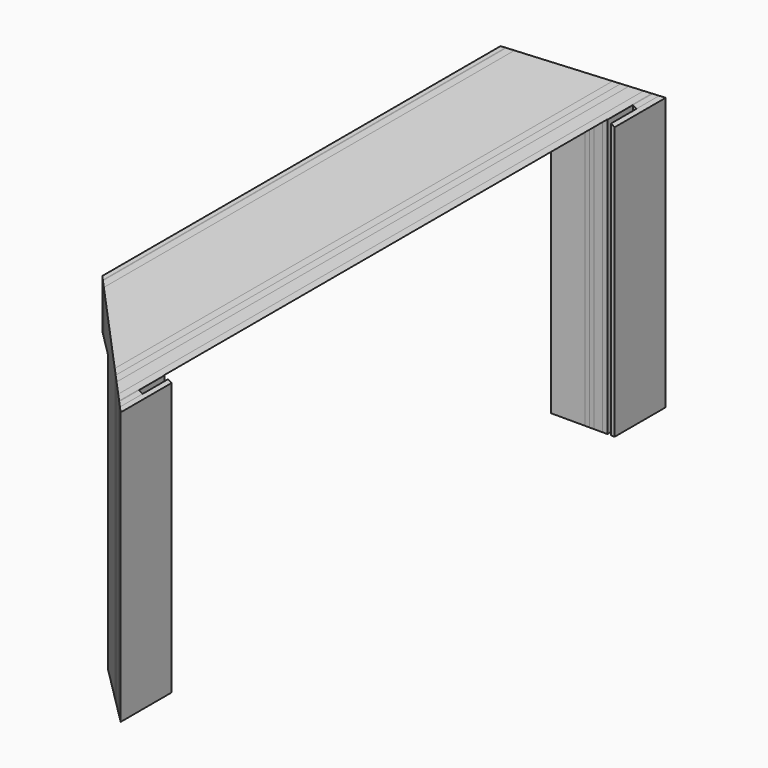
from build123d import *

# Parameters (mm, degrees)
F0_W      = 1500
F0_H      = 800
F1_DEPTH  = 6
F2_DEPTH  = 1
F3_DEPTH  = 10
F4_DEPTH  = 120
F5_DEPTH  = 10
F6_DEPTH  = 10
F7_DEPTH  = 18
F8_DEPTH  = 10
F9_DEPTH  = 1
F10_W     = 70
F10_H     = 800
F11_DEPTH = 8
F12_W     = 1500
F12_H     = 800
F13_DEPTH = 8
F15_DEPTH = 800.001
F16_W     = 1219.2
F16_H     = 609.6
F17_DEPTH = 202.001
F19_DEPTH = 1500.001


with BuildPart() as f1:
    # F0 (on Right) → F1 (new body)
    with BuildSketch(Plane.YZ):
        with Locations((750, 400)):
            Rectangle(F0_W, F0_H)
    extrude(amount=F1_DEPTH)


with BuildPart() as f2:
    # F2 (new): a face of the model
    f2_faces = [f1.part.faces().sort_by_distance(p)[0] for p in [
        (6, 750, 400),
    ]]
    extrude(f2_faces, amount=F2_DEPTH)


with BuildPart() as f3:
    # F3 (new): a face of the model
    f3_faces = [f2.part.faces().sort_by_distance(p)[0] for p in [
        (7, 750, 400),
    ]]
    extrude(f3_faces, amount=F3_DEPTH)


with BuildPart() as f4:
    # F4 (new): a face of the model
    f4_faces = [f3.part.faces().sort_by_distance(p)[0] for p in [
        (17, 750, 400),
    ]]
    extrude(f4_faces, amount=F4_DEPTH)


with BuildPart() as f5:
    # F5 (new): a face of the model
    f5_faces = [f4.part.faces().sort_by_distance(p)[0] for p in [
        (137, 750, 400),
    ]]
    extrude(f5_faces, amount=F5_DEPTH)


with BuildPart() as f6:
    # F6 (new): a face of the model
    f6_faces = [f5.part.faces().sort_by_distance(p)[0] for p in [
        (147, 750, 400),
    ]]
    extrude(f6_faces, amount=F6_DEPTH)


with BuildPart() as f7:
    # F7 (new): a face of the model
    f7_faces = [f6.part.faces().sort_by_distance(p)[0] for p in [
        (157, 750, 400),
    ]]
    extrude(f7_faces, amount=F7_DEPTH)


with BuildPart() as f8:
    # F8 (new): a face of the model
    f8_faces = [f7.part.faces().sort_by_distance(p)[0] for p in [
        (175, 750, 400),
    ]]
    extrude(f8_faces, amount=F8_DEPTH)


with BuildPart() as f9:
    # F9 (new): a face of the model
    f9_faces = [f8.part.faces().sort_by_distance(p)[0] for p in [
        (185, 750, 400),
    ]]
    extrude(f9_faces, amount=F9_DEPTH)


with BuildPart() as f11:
    # F10 (on face) → F11 (new body)
    with BuildSketch(Plane.YZ.offset(186)):
        with Locations((35, 400)):
            Rectangle(F10_W, F10_H)
    extrude(amount=F11_DEPTH)


with BuildPart() as f11b:
    # F10 (on face) → F11, piece 2 (new body)
    with BuildSketch(Plane.YZ.offset(186)):
        with Locations((1465, 400)):
            Rectangle(F10_W, F10_H)
    extrude(amount=F11_DEPTH)


with BuildPart() as f13:
    # F12 (on face) → F13 (new body)
    with BuildSketch(Plane.YZ.offset(194)):
        with Locations((750, 400)):
            Rectangle(F12_W, F12_H)
    extrude(amount=F13_DEPTH)


with BuildPart() as f15_tool:
    # F14 (on face) → F15 (new body, through all)
    with BuildSketch(Plane.XY.offset(800)):
        Polygon((0, 1298), (202, 1500), (0, 1500), align=None)
        Polygon((202, 0), (0, 202), (0, 0), align=None)
    extrude(amount=-F15_DEPTH)


with BuildPart() as f1_1:
    add(f1.part)

    # F15: cut by f15_tool
    add(f15_tool.part, mode=Mode.SUBTRACT)


with BuildPart() as f2_1:
    add(f2.part)

    # F15: cut by f15_tool
    add(f15_tool.part, mode=Mode.SUBTRACT)


with BuildPart() as f3_1:
    add(f3.part)

    # F15: cut by f15_tool
    add(f15_tool.part, mode=Mode.SUBTRACT)


with BuildPart() as f4_1:
    add(f4.part)

    # F15: cut by f15_tool
    add(f15_tool.part, mode=Mode.SUBTRACT)


with BuildPart() as f5_1:
    add(f5.part)

    # F15: cut by f15_tool
    add(f15_tool.part, mode=Mode.SUBTRACT)


with BuildPart() as f6_1:
    add(f6.part)

    # F15: cut by f15_tool
    add(f15_tool.part, mode=Mode.SUBTRACT)


with BuildPart() as f7_1:
    add(f7.part)

    # F15: cut by f15_tool
    add(f15_tool.part, mode=Mode.SUBTRACT)


with BuildPart() as f8_1:
    add(f8.part)

    # F15: cut by f15_tool
    add(f15_tool.part, mode=Mode.SUBTRACT)


with BuildPart() as f9_1:
    add(f9.part)

    # F15: cut by f15_tool
    add(f15_tool.part, mode=Mode.SUBTRACT)


with BuildPart() as f11_1:
    add(f11.part)

    # F15: cut by f15_tool
    add(f15_tool.part, mode=Mode.SUBTRACT)


with BuildPart() as f11b_1:
    add(f11b.part)

    # F15: cut by f15_tool
    add(f15_tool.part, mode=Mode.SUBTRACT)


with BuildPart() as f13_1:
    add(f13.part)

    # F15: cut by f15_tool
    add(f15_tool.part, mode=Mode.SUBTRACT)


with BuildPart() as f17_tool:
    # F16 (on face) → F17 (new body, through all)
    with BuildSketch(Plane.YZ.offset(202)):
        with Locations((750, 304.8)):
            Rectangle(F16_W, F16_H)
    extrude(amount=-F17_DEPTH)


with BuildPart() as f1_2:
    add(f1_1.part)

    # F17: cut by f17_tool
    add(f17_tool.part, mode=Mode.SUBTRACT)


with BuildPart() as f2_2:
    add(f2_1.part)

    # F17: cut by f17_tool
    add(f17_tool.part, mode=Mode.SUBTRACT)


with BuildPart() as f3_2:
    add(f3_1.part)

    # F17: cut by f17_tool
    add(f17_tool.part, mode=Mode.SUBTRACT)


with BuildPart() as f4_2:
    add(f4_1.part)

    # F17: cut by f17_tool
    add(f17_tool.part, mode=Mode.SUBTRACT)


with BuildPart() as f5_2:
    add(f5_1.part)

    # F17: cut by f17_tool
    add(f17_tool.part, mode=Mode.SUBTRACT)


with BuildPart() as f6_2:
    add(f6_1.part)

    # F17: cut by f17_tool
    add(f17_tool.part, mode=Mode.SUBTRACT)


with BuildPart() as f7_2:
    add(f7_1.part)

    # F17: cut by f17_tool
    add(f17_tool.part, mode=Mode.SUBTRACT)


with BuildPart() as f8_2:
    add(f8_1.part)

    # F17: cut by f17_tool
    add(f17_tool.part, mode=Mode.SUBTRACT)


with BuildPart() as f9_2:
    add(f9_1.part)

    # F17: cut by f17_tool
    add(f17_tool.part, mode=Mode.SUBTRACT)


with BuildPart() as f13_2:
    add(f13_1.part)

    # F17: cut by f17_tool
    add(f17_tool.part, mode=Mode.SUBTRACT)


with BuildPart() as f19_tool:
    # F18 (on Front) → F19 (new body, through all)
    with BuildSketch(Plane.XZ):
        Polygon((202, 1100), (-664.0254037844, 1100), (202, 600), align=None)
    extrude(amount=-F19_DEPTH)


with BuildPart() as f1_3:
    add(f1_2.part)

    # F19: cut by f19_tool
    add(f19_tool.part, mode=Mode.SUBTRACT)


with BuildPart() as f2_3:
    add(f2_2.part)

    # F19: cut by f19_tool
    add(f19_tool.part, mode=Mode.SUBTRACT)


with BuildPart() as f3_3:
    add(f3_2.part)

    # F19: cut by f19_tool
    add(f19_tool.part, mode=Mode.SUBTRACT)


with BuildPart() as f4_3:
    add(f4_2.part)

    # F19: cut by f19_tool
    add(f19_tool.part, mode=Mode.SUBTRACT)


with BuildPart() as f5_3:
    add(f5_2.part)

    # F19: cut by f19_tool
    add(f19_tool.part, mode=Mode.SUBTRACT)


with BuildPart() as f6_3:
    add(f6_2.part)

    # F19: cut by f19_tool
    add(f19_tool.part, mode=Mode.SUBTRACT)


with BuildPart() as f7_3:
    add(f7_2.part)

    # F19: cut by f19_tool
    add(f19_tool.part, mode=Mode.SUBTRACT)


with BuildPart() as f8_3:
    add(f8_2.part)

    # F19: cut by f19_tool
    add(f19_tool.part, mode=Mode.SUBTRACT)


with BuildPart() as f9_3:
    add(f9_2.part)

    # F19: cut by f19_tool
    add(f19_tool.part, mode=Mode.SUBTRACT)


with BuildPart() as f11_2:
    add(f11_1.part)

    # F19: cut by f19_tool
    add(f19_tool.part, mode=Mode.SUBTRACT)


with BuildPart() as f11b_2:
    add(f11b_1.part)

    # F19: cut by f19_tool
    add(f19_tool.part, mode=Mode.SUBTRACT)


with BuildPart() as f13_3:
    add(f13_2.part)

    # F19: cut by f19_tool
    add(f19_tool.part, mode=Mode.SUBTRACT)


solid = Compound([f1_3.part, f2_3.part, f3_3.part, f4_3.part, f5_3.part, f6_3.part, f7_3.part, f8_3.part, f9_3.part, f11_2.part, f11b_2.part, f13_3.part])
